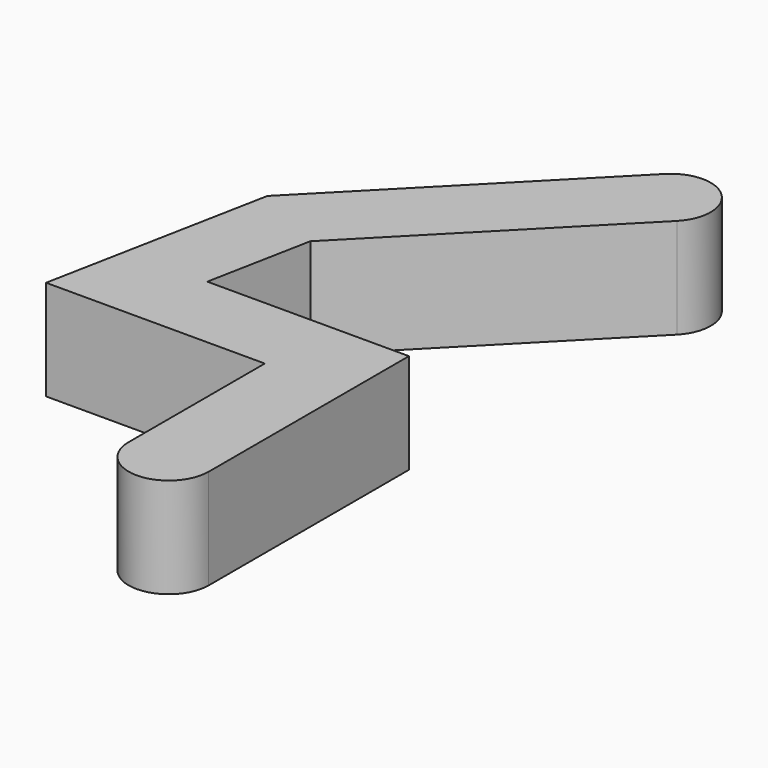
from build123d import *

# Parameters (mm, degrees)
F2_DEPTH = 12.7


with BuildPart() as f2:
    # F0 (on Top) → F2 (new body, through all)
    with BuildSketch(Plane.XY):
        with BuildLine():
            Line((-20.507467, 31.75), (-17.952428, 44.894538))
            Line((-17.952428, 44.894538), (7.68059, 70.978887))
            ThreePointArc((7.68059, 70.978887), (7.617897, 78.162819), (0.433966, 78.100125))
            Line((0.433966, 78.100125), (-27.342302, 49.83479))
            Line((-27.342302, 49.83479), (-32.832533, 21.59))
            Line((-32.832533, 21.59), (-5.08, 21.59))
            Line((-5.08, 21.59), (-5.08, 0))
            ThreePointArc((-5.08, 0), (0, -5.08), (5.08, 0))
            Line((5.08, 0), (5.08, 31.75))
            Line((5.08, 31.75), (-20.507467, 31.75))
        make_face()
    extrude(amount=F2_DEPTH)


solid = f2.part
